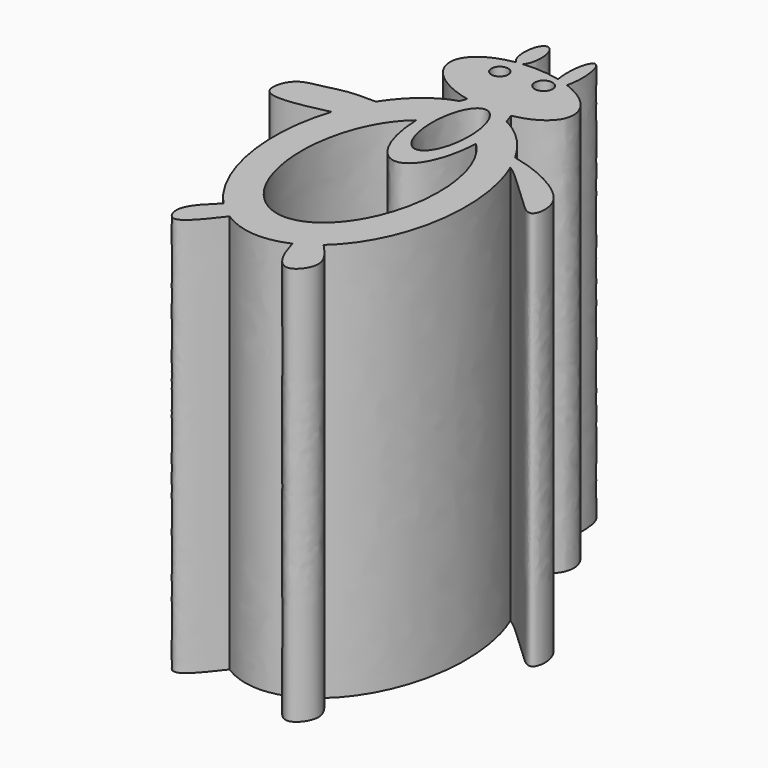
from build123d import *

# Parameters (mm, degrees)
F0_R     = 0.5325903999
F0_R_2   = 0.569492944
F1_DEPTH = 25.4


with BuildPart() as f1:
    # F0 (on Top) → F1 (new body)
    with BuildSketch(Plane.XY):
        with BuildLine():
            add(Edge.make_bspline(
                [(-59.8643314165, 40.9120938361), (-61.2658765164, 44.2532785614), (-62.6905932736, 40.9620371329)],
                knots=[5.4686720631, 5.4686720631, 5.4686720631, 7.0819842237, 7.0819842237, 7.0819842237], degree=2, weights=[1, 0.6919165317, 1]))
            add(Edge.make_bspline(
                [(-59.8643314165, 40.9120938361), (-52.2382796443, 42.4343358511), (-59.7457841639, 45.2186326104)],
                knots=[5.2197012715, 5.2197012715, 5.2197012715, 7.4411828809, 7.4411828809, 7.4411828809], degree=2, weights=[1, 0.443997857, 1]))
            add(Edge.make_bspline(
                [(-59.7457841639, 45.2186326104), (-59.1160616036, 47.5935844983), (-60.0553744049, 47.8784832648), (-60.9946872062, 48.1633820314), (-60.4998879349, 45.4473564539)],
                knots=[3.9812346301, 3.9812346301, 3.9812346301, 6.1937676263, 6.1937676263, 8.4063006226, 8.4063006226, 8.4063006226], degree=2, weights=[1, 0.4480025026, 1, 0.4480025026, 1]))
            add(Edge.make_bspline(
                [(-60.4998879349, 45.4473564539), (-61.6882230166, 45.7334909403), (-62.8725029055, 45.6157406025)],
                knots=[1.3522357029, 1.3522357029, 1.3522357029, 1.9270491675, 1.9270491675, 1.9270491675], degree=2, weights=[1, 0.9589822032, 1]))
            add(Edge.make_bspline(
                [(-62.8725029055, 45.6157406025), (-62.2370483777, 46.2696823091), (-62.6933201358, 47.4446403485), (-63.1495918939, 48.6195983879), (-63.5396358431, 47.3336931042), (-63.9296797922, 46.0477878206), (-63.2636187812, 45.564467504)],
                knots=[0.4363026783, 0.4363026783, 0.4363026783, 2.2793812226, 2.2793812226, 4.1224597668, 4.1224597668, 5.965538311, 5.965538311, 5.965538311], degree=2, weights=[1, 0.604594792, 1, 0.604594792, 1, 0.604594792, 1]))
            add(Edge.make_bspline(
                [(-63.2636187812, 45.564467504), (-74.9218754995, 43.6536306488), (-62.6905932736, 40.9620371329)],
                knots=[2.0263191021, 2.0263191021, 2.0263191021, 4.5273760446, 4.5273760446, 4.5273760446], degree=2, weights=[1, 0.3148208073, 1]))
        make_face()
        with Locations((-63.2716566324, 44.2794971168)):
            Circle(F0_R, mode=Mode.SUBTRACT)
        with Locations((-60.6100000441, 44.4458536804)):
            Circle(F0_R_2, mode=Mode.SUBTRACT)
        with BuildLine():
            add(Edge.make_bspline(
                [(-59.8643314165, 40.9120938361), (-59.7910940913, 40.7021420758), (-59.7178567661, 40.4921903156), (-59.644619441, 40.2822385553)],
                knots=[0, 0, 0, 0, 0.6670764777, 0.6670764777, 0.6670764777, 0.6670764777], degree=3))
            add(Edge.make_bspline(
                [(-59.8643314165, 40.9120938361), (-61.2658765164, 44.2532785614), (-62.6905932736, 40.9620371329)],
                knots=[5.4686720631, 5.4686720631, 5.4686720631, 7.0819842237, 7.0819842237, 7.0819842237], degree=2, weights=[1, 0.6919165317, 1]))
            add(Edge.make_bspline(
                [(-62.6905932736, 40.9620371329), (-62.7429366426, 40.8252032933), (-62.7952800116, 40.6883694537), (-62.8476233805, 40.5515356141)],
                knots=[0, 0, 0, 0, 0.4395110367, 0.4395110367, 0.4395110367, 0.4395110367], degree=3))
            add(Edge.make_bspline(
                [(-62.8476233805, 40.5515356141), (-63.2909814909, 39.2369202968), (-63.2409049569, 37.590783735)],
                knots=[0.9218879607, 0.9218879607, 0.9218879607, 1.6391060035, 1.6391060035, 1.6391060035], degree=2, weights=[1, 0.9363859241, 1]))
            add(Edge.make_bspline(
                [(-63.2409049569, 37.590783735), (-63.1178627803, 33.5460903578), (-61.3153956307, 33.4895621049), (-59.512928481, 33.433033852), (-59.3397866543, 37.4684384251)],
                knots=[1.6391060035, 1.6391060035, 1.6391060035, 3.1276488907, 3.1276488907, 4.6161917779, 4.6161917779, 4.6161917779], degree=2, weights=[1, 0.7355816479, 1, 0.7355816479, 1]))
            add(Edge.make_bspline(
                [(-59.3397866543, 37.4684384251), (-59.2742995949, 38.9947407867), (-59.644619441, 40.2822385553)],
                knots=[4.6161917779, 4.6161917779, 4.6161917779, 5.2865644404, 5.2865644404, 5.2865644404], degree=2, weights=[1, 0.9443490333, 1]))
        make_face()
        with BuildLine():
            add(Edge.make_bspline(
                [(-61.2881034613, 40.64726457), (-63.3477063556, 40.64726457), (-62.3179049084, 36.5132540464), (-61.2881034613, 32.3792435229), (-60.2583020141, 36.5132540464), (-59.228500567, 40.64726457), (-61.2881034613, 40.64726457)],
                knots=[0, 0, 0, 2.0943951024, 2.0943951024, 4.1887902048, 4.1887902048, 6.2831853072, 6.2831853072, 6.2831853072], degree=2, weights=[1, 0.5, 1, 0.5, 1, 0.5, 1]))
        make_face(mode=Mode.SUBTRACT)
        with BuildLine():
            add(Edge.make_bspline(
                [(-56.8866449756, 37.5193916261), (-57.9952938423, 39.4747769058), (-59.644619441, 40.2822385553)],
                knots=[5.4032954727, 5.4032954727, 5.4032954727, 5.9593109812, 5.9593109812, 5.9593109812], degree=2, weights=[1, 0.9616040991, 1]))
            add(Edge.make_bspline(
                [(-59.3397866543, 37.4684384251), (-59.2742995949, 38.9947407867), (-59.644619441, 40.2822385553)],
                knots=[4.6161917779, 4.6161917779, 4.6161917779, 5.2865644404, 5.2865644404, 5.2865644404], degree=2, weights=[1, 0.9443490333, 1]))
            add(Edge.make_bspline(
                [(-63.2409049569, 37.590783735), (-67.7047537985, 33.9427853859), (-64.908146491, 27.8170771538), (-62.1115391835, 21.6913689217), (-58.6898223696, 27.6220605629), (-55.2681055558, 33.5527522041), (-59.3397866543, 37.4684384251)],
                knots=[0.5250266048, 0.5250266048, 0.5250266048, 2.2832389285, 2.2832389285, 4.0414512522, 4.0414512522, 5.7996635759, 5.7996635759, 5.7996635759], degree=2, weights=[1, 0.6378398054, 1, 0.6378398054, 1, 0.6378398054, 1]))
            add(Edge.make_bspline(
                [(-62.8476233805, 40.5515356141), (-63.2909814909, 39.2369202968), (-63.2409049569, 37.590783735)],
                knots=[0.9218879607, 0.9218879607, 0.9218879607, 1.6391060035, 1.6391060035, 1.6391060035], degree=2, weights=[1, 0.9363859241, 1]))
            add(Edge.make_bspline(
                [(-62.8476233805, 40.5515356141), (-64.7382682491, 39.9675861838), (-66.0528848362, 37.9016987636)],
                knots=[0.2087007802, 0.2087007802, 0.2087007802, 0.8227075011, 0.8227075011, 0.8227075011], degree=2, weights=[1, 0.9532434434, 1]))
            add(Edge.make_bspline(
                [(-66.0528848362, 37.9016987636), (-66.6795302533, 37.9182075858), (-67.8548986958, 37.9269789249), (-69.2608995409, 37.4750193334), (-70.8043699374, 37.3122465752), (-71.5023775211, 34.6763005756), (-68.7649100656, 35.2846286088), (-67.0929351195, 35.6625256107)],
                knots=[0, 0, 0, 0, 0.1932283446, 0.3683840587, 0.541203725, 0.7188250754, 1, 1, 1, 1], degree=3))
            add(Edge.make_bspline(
                [(-67.0929351195, 35.6625256107), (-69.2785429163, 28.9389245972), (-65.1251841394, 24.617209309)],
                knots=[1.1281081534, 1.1281081534, 1.1281081534, 2.521872583, 2.521872583, 2.521872583], degree=2, weights=[1, 0.766846999, 1]))
            add(Edge.make_bspline(
                [(-65.1251841394, 24.617209309), (-65.7253031161, 24.0350782883), (-66.8698833161, 22.9643407127), (-66.0040685128, 21.1050077268), (-64.7453379674, 22.7923993869), (-64.0263408118, 23.7083257742)],
                knots=[0, 0, 0, 0, 0.3629261784, 0.6047302013, 1, 1, 1, 1], degree=3))
            add(Edge.make_bspline(
                [(-64.0263408118, 23.7083257742), (-61.9319834834, 22.3731079211), (-59.7519885866, 23.3752429405)],
                knots=[2.7294760899, 2.7294760899, 2.7294760899, 3.446944395, 3.446944395, 3.446944395], degree=2, weights=[1, 0.9363419992, 1]))
            add(Edge.make_bspline(
                [(-59.7519885866, 23.3752429405), (-59.5873423079, 22.8181401445), (-59.2486832705, 21.7279301537), (-58.1950304768, 20.8280369242), (-56.8585269953, 22.5409142055), (-57.9158500507, 23.6566204972), (-58.4503603423, 24.2290790224)],
                knots=[0, 0, 0, 0, 0.2656229364, 0.4664347492, 0.708628226, 1, 1, 1, 1], degree=3))
            add(Edge.make_bspline(
                [(-58.4503603423, 24.2290790224), (-53.1395517352, 28.8719652036), (-56.4057024902, 36.543684771)],
                knots=[3.6816111701, 3.6816111701, 3.6816111701, 5.2680271143, 5.2680271143, 5.2680271143], degree=2, weights=[1, 0.7015629044, 1]))
            add(Edge.make_bspline(
                [(-56.8866449756, 37.5193916261), (-56.1893483051, 37.3557625904), (-54.8252163122, 36.961306999), (-51.9965207965, 35.2841283363), (-52.3095126979, 32.7902904051), (-53.7459535682, 34.1598272481), (-55.3131544134, 35.6506997658), (-56.0287672582, 36.3037279076), (-56.4057024902, 36.543684771)],
                knots=[0, 0, 0, 0, 0.1779089411, 0.3896798025, 0.5366807976, 0.6745670983, 0.8587358893, 1, 1, 1, 1], degree=3))
        make_face()
    extrude(amount=F1_DEPTH)


solid = f1.part
